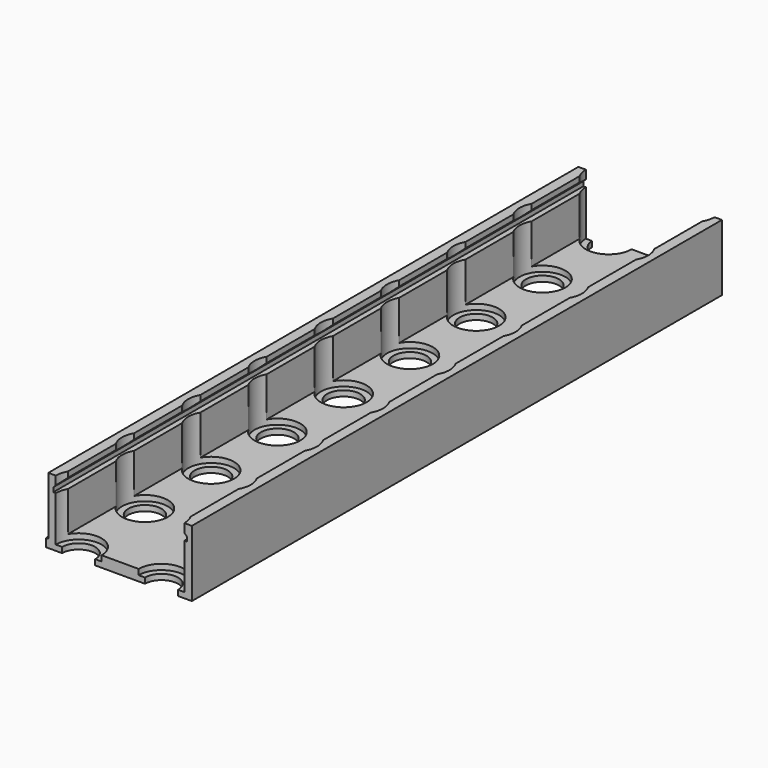
from build123d import *

# Parameters (mm, degrees)
PAD006_DEPTH            = 120
HOLE_D                  = 6
HOLE_DEPTH              = 25
HOLE_CBORE_D            = 8.3
HOLE_CBORE_DEPTH        = 11
SKETCH_W                = 1.5
SKETCH_H                = 40
PAD_DEPTH               = 0.4
BODY003_PLACEMENT_ANGLE = 180


with BuildPart() as part:
    # Sketch019 → Pad006 (new body)
    with BuildSketch(Plane(origin=(7.5, 0, 0), x_dir=(1, 0, 0), z_dir=(0, -1, 0))):
        Polygon((13, -6), (13, 6), (11.1, 6), (11.1, 5), (12.1, 4), (12.1, 3.2), (11.1, 3.2), (11.1, -4), (-11.1, -4), (-11.1, 3.2), (-12.1, 3.2), (-12.1, 4), (-11.1, 5), (-11.1, 6), (-13, 6), (-13, -6), align=None)
    extrude(amount=PAD006_DEPTH)

    # Hole
    with Locations(Plane(origin=(-15, -200.5, 6), x_dir=(1, 0, 0), z_dir=(0, 0, 1))):
        with Locations((15, 35.5), (45, 35.5), (75, 35.5), (15, 65.5), (45, 65.5), (75, 65.5), (30, 20.5), (60, 20.5), (60, 50.5), (30, 50.5), (90, 50.5), (105, 65.5), (90, 20.5), (105, 35.5), (30, 80.5), (60, 80.5), (90, 80.5), (15, 95.5), (45, 95.5), (75, 95.5), (105, 95.5), (30, 110.5), (60, 110.5), (90, 110.5), (15, 125.5), (45, 125.5), (75, 125.5), (105, 125.5), (15, 155.5), (45, 155.5), (75, 155.5), (60, 140.5), (30, 140.5), (90, 140.5), (105, 155.5), (30, 170.5), (60, 170.5), (90, 170.5), (15, 185.5), (45, 185.5), (75, 185.5), (105, 185.5), (30, 200.5), (60, 200.5), (90, 200.5), (15, 215.5), (45, 215.5), (75, 215.5), (105, 215.5), (120, 50.5), (120, 20.5), (120, 80.5), (120, 110.5), (120, 140.5), (120, 170.5), (120, 200.5), (0, 50.5), (0, 20.5), (0, 80.5), (0, 110.5), (0, 140.5), (0, 170.5), (0, 200.5), (15, 20.5), (45, 20.5), (75, 20.5), (15, 50.5), (45, 50.5), (75, 50.5), (30, 5.5), (60, 5.5), (60, 35.5), (30, 35.5), (90, 35.5), (105, 50.5), (90, 5.5), (105, 20.5), (30, 65.5), (60, 65.5), (90, 65.5), (15, 80.5), (45, 80.5), (75, 80.5), (105, 80.5), (30, 95.5), (60, 95.5), (90, 95.5), (15, 110.5), (45, 110.5), (75, 110.5), (105, 110.5), (15, 140.5), (45, 140.5), (75, 140.5), (60, 125.5), (30, 125.5), (90, 125.5), (105, 140.5), (30, 155.5), (60, 155.5), (90, 155.5), (15, 170.5), (45, 170.5), (75, 170.5), (105, 170.5), (30, 185.5), (60, 185.5), (90, 185.5), (15, 200.5), (45, 200.5), (75, 200.5), (105, 200.5), (120, 35.5), (120, 5.5), (120, 65.5), (120, 95.5), (120, 125.5), (120, 155.5), (120, 185.5), (0, 35.5), (0, 5.5), (0, 65.5), (0, 95.5), (0, 125.5), (0, 155.5), (0, 185.5)):
            CounterBoreHole(HOLE_D / 2, HOLE_CBORE_D / 2, HOLE_CBORE_DEPTH, depth=HOLE_DEPTH)

    # Sketch (on Face35 of Hole) → Pad (join)
    with BuildSketch(Plane(origin=(20.5, 0, 0), x_dir=(0, 0, 1), z_dir=(1, 0, 0))):
        with Locations((-5.25, 20)):
            Rectangle(SKETCH_W, SKETCH_H)
    extrude(amount=PAD_DEPTH)


with BuildPart() as part_1:
    # Body003 placement: moved
    add(part.part.moved(Location((-48.5, -156, 9))).rotate(Axis((-48.5, -156, 9), (0, 0, 1)), BODY003_PLACEMENT_ANGLE))


solid = part_1.part
